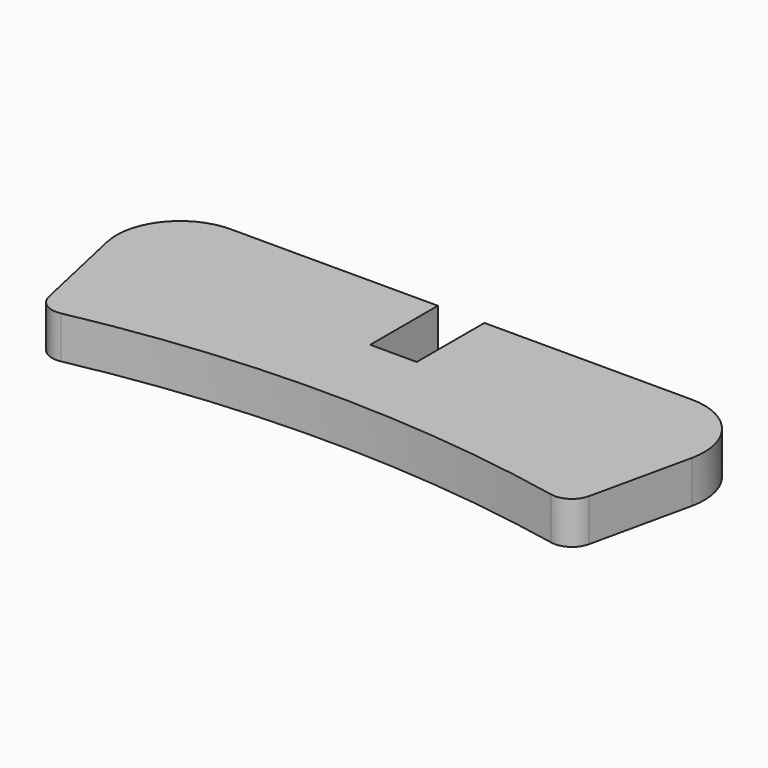
from build123d import *

# Parameters (mm, degrees)
F1_DEPTH = 10


with BuildPart() as f1:
    # F0 (on Top) → F1 (new body)
    with BuildSketch(Plane.XY):
        with BuildLine():
            ThreePointArc((-57.959729, 284.149028), (0, 290), (57.959729, 284.149028))
            ThreePointArc((57.959729, 284.149028), (61.681174, 284.854111), (63.840514, 287.965951))
            Line((63.840514, 287.965951), (69.114066, 311.753406))
            ThreePointArc((69.114066, 311.753406), (66.167893, 324.388852), (54.469626, 330))
            Line((54.469626, 330), (5.5, 330))
            Line((5.5, 330), (5.5, 310))
            Line((5.5, 310), (-5.5, 310))
            Line((-5.5, 310), (-5.5, 330))
            Line((-5.5, 330), (-54.469626, 330))
            ThreePointArc((-54.469626, 330), (-66.167893, 324.388852), (-69.114066, 311.753406))
            Line((-69.114066, 311.753406), (-63.840514, 287.965951))
            ThreePointArc((-63.840514, 287.965951), (-61.681174, 284.854111), (-57.959729, 284.149028))
        make_face()
    extrude(amount=F1_DEPTH)


solid = f1.part
